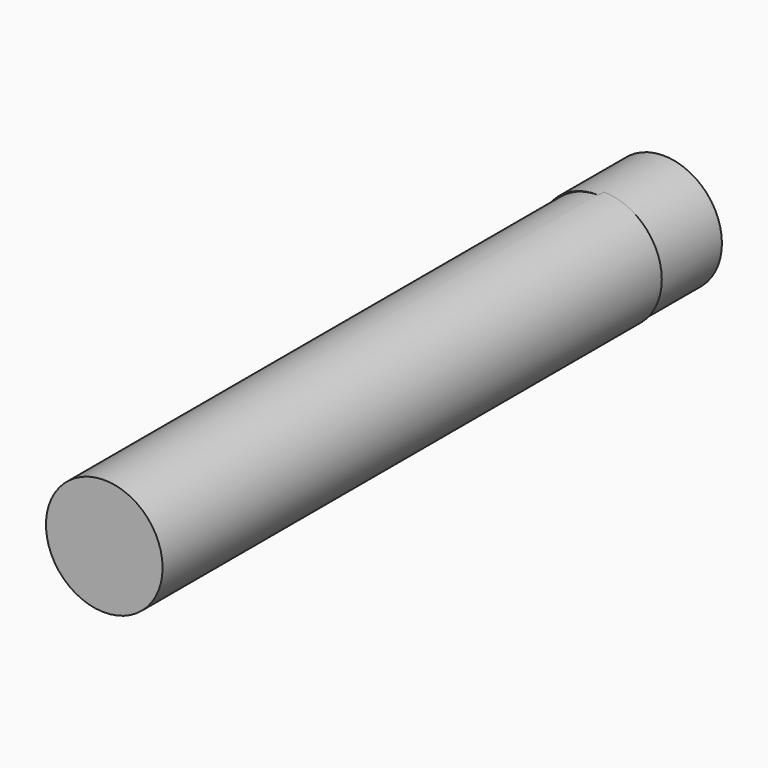
from build123d import *

# Parameters (mm, degrees)
F2_R          = 6.585436
F3_DEPTH      = 57.03803
F3_DEPTH_BACK = 13.4476


with BuildPart() as f1:
    # F0 (on Top) → F1 (revolve)
    with BuildSketch(Plane.XY):
        Polygon((3.216415, 22.165906), (3.216415, 12.92873), (9.804693, 12.672105), (9.806087, 12.67213), (9.806087, 22.165906), align=None)
    revolve(axis=Axis((3.216415, 17.547318, 0), (0, 1, 0)))

    # F2 (on Front) → F3 (join, two sides)
    with BuildSketch(Plane.XZ) as f3_sk:
        with Locations((3.403597, 0)):
            Circle(F2_R)
    extrude(amount=F3_DEPTH)
    extrude(f3_sk.sketch, amount=-F3_DEPTH_BACK)


solid = f1.part
